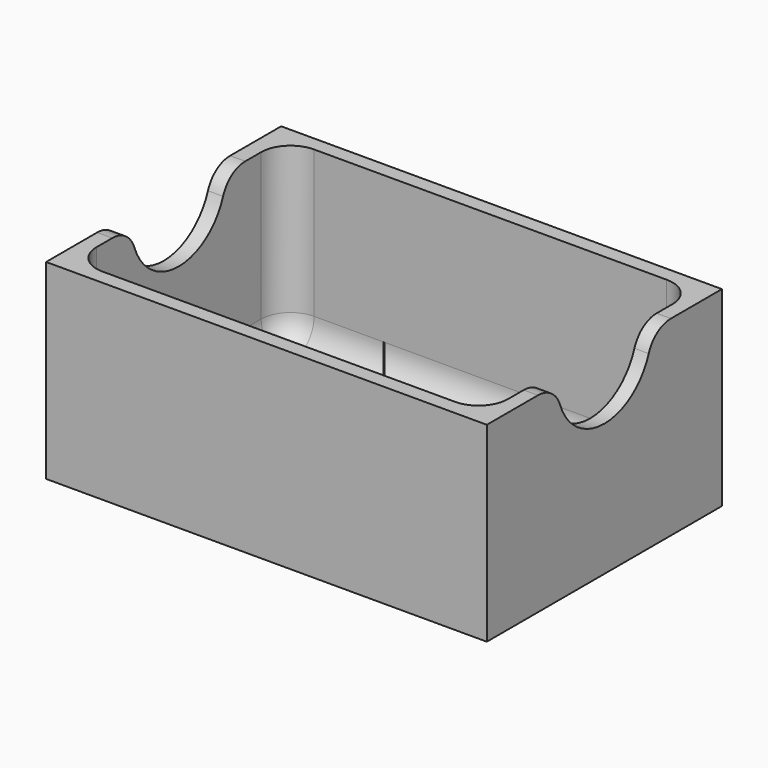
from build123d import *

# Parameters (mm, degrees)
F1_W     = 75
F1_H     = 50
F2_DEPTH = 32.5
F3_W     = 70
F3_H     = 45
F3_W_2   = 0.1495928758
F3_H_2   = 0.0465683566
F4_DEPTH = 30
F5_R     = 10
F6_DEPTH = 76
F7_R     = 5


with BuildPart() as f2:
    # F1 (on Top) → F2 (new body)
    with BuildSketch(Plane.XY):
        Rectangle(F1_W, F1_H)
    extrude(amount=F2_DEPTH)

    # F3 (on face) → F4 (cut)
    with BuildSketch(Plane.XY.offset(32.5)):
        with Locations((0.0747964379, 0.0232841783)):
            Rectangle(F3_W, F3_H)
        Rectangle(F3_W_2, F3_H_2, mode=Mode.SUBTRACT)
    extrude(amount=-F4_DEPTH, mode=Mode.SUBTRACT)

    # F5 (on face) → F6 (cut)
    with BuildSketch(Plane.YZ.offset(37.5)):
        with Locations((0, 32.5)):
            Circle(F5_R)
        with BuildLine():
            ThreePointArc((-10, 32.5), (0, 22.5), (10, 32.5))
            Line((10, 32.5), (-10, 32.5))
        make_face()
    extrude(amount=-F6_DEPTH, mode=Mode.SUBTRACT)

    # F7
    f7_edges = [f2.edges().sort_by_distance(p)[0] for p in [
        (35.074796, -22.476716, 17.5),
        (0.074796, -22.476716, 2.5),
        (35.074796, 0.023284, 2.5),
        (-36.212602, -10, 32.5),
        (36.287398, -10, 32.5),
        (36.287398, 10, 32.5),
        (-36.212602, 10, 32.5),
        (35.074796, 22.523284, 17.5),
        (0.074796, 22.523284, 2.5),
        (-34.925204, 0.023284, 2.5),
        (-34.925204, -22.476716, 17.5),
        (-34.925204, 22.523284, 17.5),
    ]]
    fillet(f7_edges, radius=F7_R)


solid = f2.part
